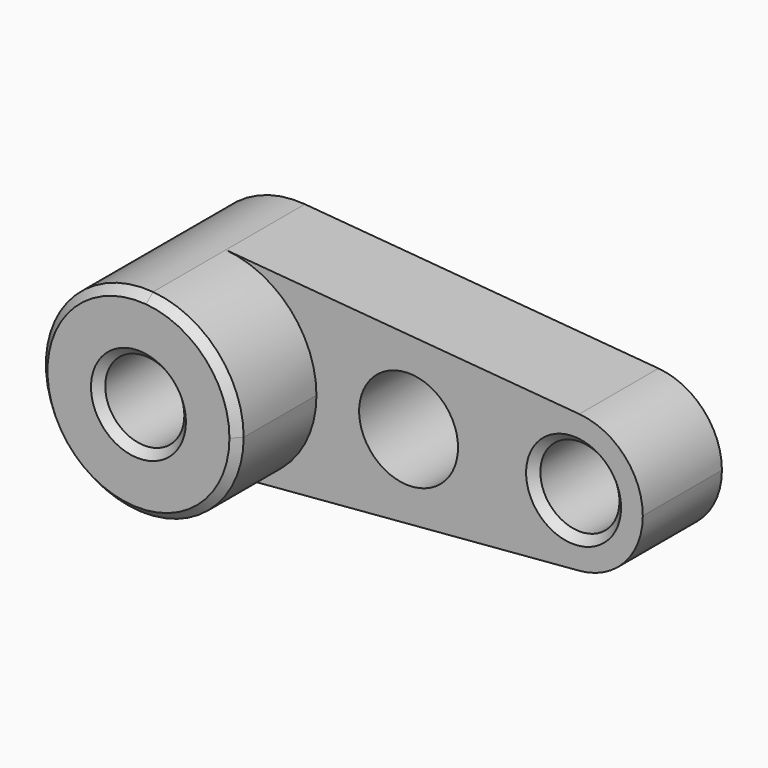
from build123d import *

# Parameters (mm, degrees)
F0_R     = 10
F1_DEPTH = 25
F2_DEPTH = 50
F3_SIZE  = 2
F5_R     = 12.5
F6_DEPTH = 25.001


with BuildPart() as f1:
    # F0 (on Front) → F1 (new body)
    with BuildSketch(Plane.XZ):
        with BuildLine():
            ThreePointArc((2.083333, -24.913043), (18.399502, -16.92508), (25, 0))
            ThreePointArc((25, 0), (18.399502, 16.92508), (2.083333, 24.913043))
            ThreePointArc((2.083333, 24.913043), (-25, 0), (2.083333, -24.913043))
        make_face()
        Circle(F0_R, mode=Mode.SUBTRACT)
        with BuildLine():
            ThreePointArc((2.083333, 24.913043), (18.399502, 16.92508), (25, 0))
            ThreePointArc((25, 0), (18.399502, -16.92508), (2.083333, -24.913043))
            Line((2.083333, -24.913043), (91.458333, -17.43913))
            ThreePointArc((91.458333, -17.43913), (72.5, 0), (91.458333, 17.43913))
            Line((91.458333, 17.43913), (2.083333, 24.913043))
        make_face()
        with BuildLine():
            ThreePointArc((107.5, 0), (102.879651, 11.847556), (91.458333, 17.43913))
            ThreePointArc((91.458333, 17.43913), (72.5, 0), (91.458333, -17.43913))
            ThreePointArc((91.458333, -17.43913), (102.879651, -11.847556), (107.5, 0))
        make_face()
        with Locations((90, 0)):
            Circle(F0_R, mode=Mode.SUBTRACT)
    extrude(amount=F1_DEPTH)

    # F0 (on Front) → F2 (join)
    with BuildSketch(Plane.XZ):
        with BuildLine():
            ThreePointArc((2.083333, -24.913043), (18.399502, -16.92508), (25, 0))
            ThreePointArc((25, 0), (18.399502, 16.92508), (2.083333, 24.913043))
            ThreePointArc((2.083333, 24.913043), (-25, 0), (2.083333, -24.913043))
        make_face()
        Circle(F0_R, mode=Mode.SUBTRACT)
    extrude(amount=F2_DEPTH)

    # F3
    f3_edges = [f1.edges().sort_by_distance(p)[0] for p in [
        (-2.083333, -50, 24.913043),
        (-10, -50, 0),
        (80, -25, 0),
    ]]
    chamfer(f3_edges, length=F3_SIZE)

    # F5 (on face) → F6 (cut, through all)
    with BuildSketch(Plane.XZ.offset(25)):
        with Locations((48.291023, 0)):
            Circle(F5_R)
    extrude(amount=-F6_DEPTH, mode=Mode.SUBTRACT)


solid = f1.part
